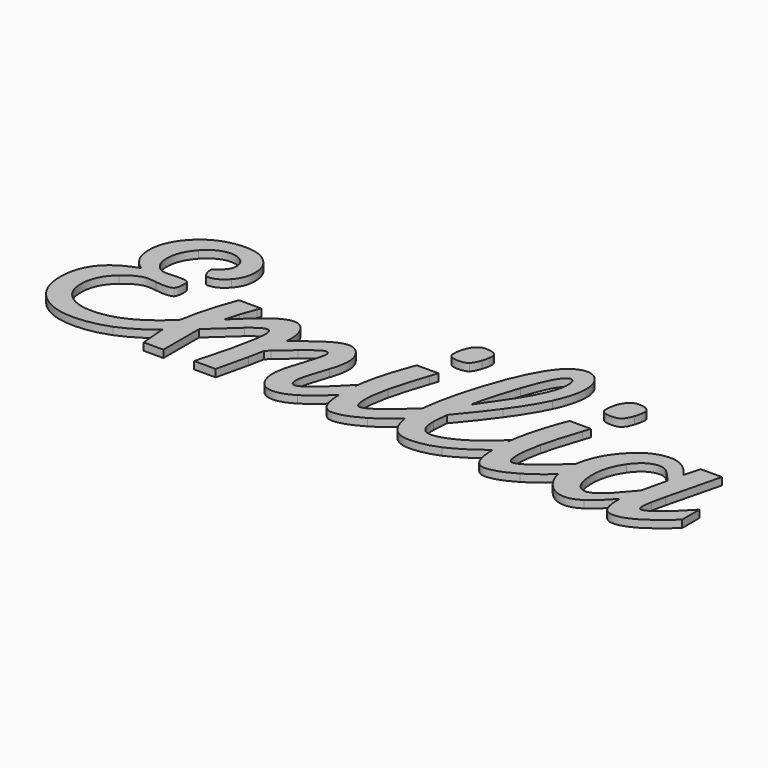
from build123d import *

# Parameters (mm, degrees)
F1_DEPTH = 1


with BuildPart() as f1:
    # F0 (on Top) → F1 (new body)
    with BuildSketch(Plane.XY):
        with BuildLine():
            Line((-26.762549, -5.396316), (-26.762549, -8.324648))
            add(Edge.make_bspline(
                [(-26.762549, -8.324648), (-26.795407437, -8.3515321107), (-26.8282712696, -8.3782705321), (-26.8611404979, -8.4048632642)],
                knots=[0, 0, 0, 0, 0.0216766613, 0.0216766613, 0.0216766613, 0.0216766613], degree=3))
            add(Edge.make_bspline(
                [(-26.836192, -9.048116), (-26.8454389032, -8.8169456343), (-26.8537550664, -8.6025280612), (-26.8611404979, -8.4048632642)],
                knots=[0, 0, 0, 0, 0.2013040862, 0.2013040862, 0.2013040862, 0.2013040862], degree=3))
            add(Edge.make_bspline(
                [(-26.595033, -11.873096), (-26.686904, -11.115175), (-26.76729, -10.173515), (-26.836192, -9.048116)],
                knots=[0, 0, 0, 0, 1, 1, 1, 1], degree=3))
            Line((-26.595033, -11.873096), (-23.942308, -11.873096))
            Line((-23.942308, -11.873096), (-24.01121, -8.186842))
            Line((-24.01121, -8.186842), (-23.942308, -5.878628))
            add(Edge.make_bspline(
                [(-20.39386, -2.640238), (-21.128814, -3.260356), (-22.31163, -4.339819), (-23.942308, -5.878628)],
                knots=[0, 0, 0, 0, 1, 1, 1, 1], degree=3))
            add(Edge.make_bspline(
                [(-18.361254, -1.400004), (-18.728731, -1.400004), (-19.406267, -1.813416), (-20.39386, -2.640238)],
                knots=[0, 0, 0, 0, 1, 1, 1, 1], degree=3))
            add(Edge.make_bspline(
                [(-17.775589, -2.364631), (-17.775589, -1.721547), (-17.97081, -1.400004), (-18.361254, -1.400004)],
                knots=[0, 0, 0, 0, 1, 1, 1, 1], degree=3))
            add(Edge.make_bspline(
                [(-18.567959, -7.153313), (-18.039712, -4.948452), (-17.775589, -3.352225), (-17.775589, -2.364631)],
                knots=[0, 0, 0, 0, 1, 1, 1, 1], degree=3))
            add(Edge.make_bspline(
                [(-19.808193, -11.873096), (-19.165108, -9.461528), (-18.751697, -7.888267), (-18.567959, -7.153313)],
                knots=[0, 0, 0, 0, 1, 1, 1, 1], degree=3))
            Line((-19.808193, -11.873096), (-16.914314, -11.873096))
            add(Edge.make_bspline(
                [(-15.915236, -7.601177), (-16.098974, -8.496902), (-16.432, -9.920874), (-16.914314, -11.873096)],
                knots=[0, 0, 0, 0, 1, 1, 1, 1], degree=3))
            add(Edge.make_bspline(
                [(-15.501823, -5.499669), (-15.570727, -6.00495), (-15.708531, -6.705453), (-15.915236, -7.601177)],
                knots=[0, 0, 0, 0, 1, 1, 1, 1], degree=3))
            Line((-15.501823, -5.499669), (-14.98506, -4.982906))
            add(Edge.make_bspline(
                [(-12.81465, -3.122553), (-13.549604, -3.742671), (-14.273074, -4.362788), (-14.98506, -4.982906)],
                knots=[0, 0, 0, 0, 1, 1, 1, 1], degree=3))
            add(Edge.make_bspline(
                [(-10.368633, -1.468906), (-10.667207, -1.468906), (-11.482546, -2.020122), (-12.81465, -3.122553)],
                knots=[0, 0, 0, 0, 1, 1, 1, 1], degree=3))
            add(Edge.make_bspline(
                [(-9.886318, -2.089024), (-9.886318, -1.675612), (-10.047089, -1.468906), (-10.368633, -1.468906)],
                knots=[0, 0, 0, 0, 1, 1, 1, 1], degree=3))
            add(Edge.make_bspline(
                [(-11.05765, -6.292041), (-10.276762, -3.949377), (-9.886318, -2.548371), (-9.886318, -2.089024)],
                knots=[0, 0, 0, 0, 1, 1, 1, 1], degree=3))
            add(Edge.make_bspline(
                [(-11.574416, -9.013665), (-11.574416, -8.232777), (-11.402161, -7.325569), (-11.05765, -6.292041)],
                knots=[0, 0, 0, 0, 1, 1, 1, 1], degree=3))
            add(Edge.make_bspline(
                [(-11.161005, -10.770665), (-11.436612, -10.21945), (-11.574416, -9.633783), (-11.574416, -9.013665)],
                knots=[0, 0, 0, 0, 1, 1, 1, 1], degree=3))
            add(Edge.make_bspline(
                [(-9.16285, -12.04535), (-10.058574, -12.04535), (-10.724626, -11.620455), (-11.161005, -10.770665)],
                knots=[0, 0, 0, 0, 1, 1, 1, 1], degree=3))
            add(Edge.make_bspline(
                [(-6.475673, -11.149625), (-7.440302, -11.746775), (-8.336027, -12.04535), (-9.16285, -12.04535)],
                knots=[0, 0, 0, 0, 1, 1, 1, 1], degree=3))
            add(Edge.make_bspline(
                [(-3.0995742317, -8.3922602015), (-4.38010124, -9.6438667833), (-5.5054674961, -10.5629883829), (-6.475673, -11.149625)],
                knots=[0.0176059329, 0.0176059329, 0.0176059329, 0.0176059329, 1, 1, 1, 1], degree=3))
            add(Edge.make_bspline(
                [(-3.0995742079, -8.3922602086), (-3.1121534026, -8.0665644592), (-3.118443, -7.709420723), (-3.118443, -7.320829)],
                knots=[0.6978688469, 0.6978688469, 0.6978688469, 0.6978688469, 1, 1, 1, 1], degree=3))
            add(Edge.make_bspline(
                [(-3.118443, -7.320829), (-3.118443, -6.8404478417), (-3.0891546473, -6.3325013692), (-3.030578, -5.7969895824)],
                knots=[0, 0, 0, 0, 0.3873307545, 0.3873307545, 0.3873307545, 0.3873307545], degree=3))
            Line((-3.030578, -5.7969895824), (-3.030578, -5.396316))
            add(Edge.make_bspline(
                [(-6.234517, -8.496902), (-5.338793, -7.738982), (-4.270813, -6.705453), (-3.030578, -5.396316)],
                knots=[0, 0, 0, 0, 1, 1, 1, 1], degree=3))
            add(Edge.make_bspline(
                [(-8.198222, -9.599333), (-7.78481, -9.599333), (-7.130242, -9.231856), (-6.234517, -8.496902)],
                knots=[0, 0, 0, 0, 1, 1, 1, 1], degree=3))
            add(Edge.make_bspline(
                [(-8.577182, -9.323723), (-8.462346, -9.507463), (-8.336026, -9.599333), (-8.198222, -9.599333)],
                knots=[0, 0, 0, 0, 1, 1, 1, 1], degree=3))
            add(Edge.make_bspline(
                [(-8.714985, -8.600255), (-8.714985, -8.875862), (-8.669051, -9.117018), (-8.577182, -9.323723)],
                knots=[0, 0, 0, 0, 1, 1, 1, 1], degree=3))
            add(Edge.make_bspline(
                [(-7.578104, -4.397238), (-8.336025, -6.602099), (-8.714985, -8.003105), (-8.714985, -8.600255)],
                knots=[0, 0, 0, 0, 1, 1, 1, 1], degree=3))
            add(Edge.make_bspline(
                [(-7.061341, -1.847868), (-7.061341, -2.559855), (-7.233595, -3.409645), (-7.578104, -4.397238)],
                knots=[0, 0, 0, 0, 1, 1, 1, 1], degree=3))
            add(Edge.make_bspline(
                [(-7.750358, 0.25364), (-7.291013, -0.320543), (-7.061341, -1.021046), (-7.061341, -1.847868)],
                knots=[0, 0, 0, 0, 1, 1, 1, 1], degree=3))
            add(Edge.make_bspline(
                [(-9.369555, 1.114915), (-8.749437, 1.114915), (-8.209705, 0.827823), (-7.750358, 0.25364)],
                knots=[0, 0, 0, 0, 1, 1, 1, 1], degree=3))
            add(Edge.make_bspline(
                [(-12.332338, -0.15977), (-11.069136, 0.69002), (-10.081541, 1.114915), (-9.369555, 1.114915)],
                knots=[0, 0, 0, 0, 1, 1, 1, 1], degree=3))
            add(Edge.make_bspline(
                [(-15.053962, -2.261279), (-13.698891, -1.181816), (-12.791683, -0.481313), (-12.332338, -0.15977)],
                knots=[0, 0, 0, 0, 1, 1, 1, 1], degree=3))
            Line((-15.053962, -2.261279), (-15.019511, -1.675614))
            add(Edge.make_bspline(
                [(-15.777433, 0.977111), (-15.272152, 0.334027), (-15.019511, -0.550215), (-15.019511, -1.675614)],
                knots=[0, 0, 0, 0, 1, 1, 1, 1], degree=3))
            add(Edge.make_bspline(
                [(-17.15547, 1.735033), (-16.650189, 1.735033), (-16.190843, 1.482393), (-15.777433, 0.977111)],
                knots=[0, 0, 0, 0, 1, 1, 1, 1], degree=3))
            add(Edge.make_bspline(
                [(-19.532586, 0.770406), (-18.613894, 1.413491), (-17.821522, 1.735033), (-17.15547, 1.735033)],
                knots=[0, 0, 0, 0, 1, 1, 1, 1], degree=3))
            add(Edge.make_bspline(
                [(-23.218837, -2.502435), (-21.657061, -0.940658), (-20.42831, 0.150289), (-19.532586, 0.770406)],
                knots=[0, 0, 0, 0, 1, 1, 1, 1], degree=3))
            add(Edge.make_bspline(
                [(-22.702074, -0.607634), (-22.862845, -1.135881), (-23.035099, -1.767481), (-23.218837, -2.502435)],
                knots=[0, 0, 0, 0, 1, 1, 1, 1], degree=3))
            add(Edge.make_bspline(
                [(-21.978603, 1.390522), (-22.277179, 0.586666), (-22.518336, -0.079386), (-22.702074, -0.607634)],
                knots=[0, 0, 0, 0, 1, 1, 1, 1], degree=3))
            Line((-21.978603, 1.390522), (-24.769132, 1.872837))
            add(Edge.make_bspline(
                [(-26.353877, -3.157004), (-25.986399, -1.641162), (-25.458151, 0.035451), (-24.769132, 1.872837)],
                knots=[0, 0, 0, 0, 1, 1, 1, 1], degree=3))
            add(Edge.make_bspline(
                [(-26.8008844315, -5.4351873882), (-26.7105769531, -4.7601669257), (-26.5615744759, -4.0007725231), (-26.353877, -3.157004)],
                knots=[0.4348029653, 0.4348029653, 0.4348029653, 0.4348029653, 1, 1, 1, 1], degree=3))
            add(Edge.make_bspline(
                [(-26.8008844315, -5.4351873882), (-26.7881047604, -5.4222598688), (-26.7753262832, -5.4093027394), (-26.762549, -5.396316)],
                knots=[0.9954399629, 0.9954399629, 0.9954399629, 0.9954399629, 1, 1, 1, 1], degree=3))
        make_face()
        with BuildLine():
            add(Edge.make_bspline(
                [(-26.762549, -8.324648), (-26.795407437, -8.3515321107), (-26.8282712696, -8.3782705321), (-26.8611404979, -8.4048632642)],
                knots=[0, 0, 0, 0, 0.0216766613, 0.0216766613, 0.0216766613, 0.0216766613], degree=3))
            Line((-26.762549, -8.324648), (-26.762549, -5.396316))
            add(Edge.make_bspline(
                [(-26.8008844315, -5.4351873882), (-26.7881047604, -5.4222598688), (-26.7753262832, -5.4093027394), (-26.762549, -5.396316)],
                knots=[0.9954399629, 0.9954399629, 0.9954399629, 0.9954399629, 1, 1, 1, 1], degree=3))
            add(Edge.make_bspline(
                [(-26.905094, -6.843255), (-26.905094, -6.4238327548), (-26.8703574772, -5.9544769116), (-26.8008844315, -5.4351873882)],
                knots=[0, 0, 0, 0, 0.4348029653, 0.4348029653, 0.4348029653, 0.4348029653], degree=3))
            add(Edge.make_bspline(
                [(-26.8611404979, -8.4048632642), (-26.8904430025, -7.6206066273), (-26.905094, -7.1000708789), (-26.905094, -6.843255)],
                knots=[0.2013040862, 0.2013040862, 0.2013040862, 0.2013040862, 1, 1, 1, 1], degree=3))
        make_face()
        with BuildLine():
            add(Edge.make_bspline(
                [(-26.8611404979, -8.4048632642), (-28.3446130958, -9.6050614881), (-29.8390762632, -10.5084980879), (-31.34453, -11.115174)],
                knots=[0.0216766613, 0.0216766613, 0.0216766613, 0.0216766613, 1, 1, 1, 1], degree=3))
            add(Edge.make_bspline(
                [(-26.8611404979, -8.4048632642), (-26.8904430025, -7.6206066273), (-26.905094, -7.1000708789), (-26.905094, -6.843255)],
                knots=[0.2013040862, 0.2013040862, 0.2013040862, 0.2013040862, 1, 1, 1, 1], degree=3))
            add(Edge.make_bspline(
                [(-26.905094, -6.843255), (-26.905094, -6.4238327548), (-26.8703574772, -5.9544769116), (-26.8008844315, -5.4351873882)],
                knots=[0, 0, 0, 0, 0.4348029653, 0.4348029653, 0.4348029653, 0.4348029653], degree=3))
            add(Edge.make_bspline(
                [(-35.34084, -9.668235), (-32.4372939305, -9.668235), (-29.5906414168, -8.2572191294), (-26.8008844315, -5.4351873882)],
                knots=[0, 0, 0, 0, 0.9954399629, 0.9954399629, 0.9954399629, 0.9954399629], degree=3))
            add(Edge.make_bspline(
                [(-38.785936, -8.565804), (-37.936146, -9.300758), (-36.78778, -9.668235), (-35.34084, -9.668235)],
                knots=[0, 0, 0, 0, 1, 1, 1, 1], degree=3))
            add(Edge.make_bspline(
                [(-40.060621, -5.637472), (-40.060621, -6.85474), (-39.635726, -7.83085), (-38.785936, -8.565804)],
                knots=[0, 0, 0, 0, 1, 1, 1, 1], degree=3))
            add(Edge.make_bspline(
                [(-38.131368, -1.572259), (-39.417537, -2.67469), (-40.060621, -4.029761), (-40.060621, -5.637472)],
                knots=[0, 0, 0, 0, 1, 1, 1, 1], degree=3))
            add(Edge.make_bspline(
                [(-35.271938, -0.228672), (-36.144696, -0.228672), (-37.097839, -0.676534), (-38.131368, -1.572259)],
                knots=[0, 0, 0, 0, 1, 1, 1, 1], degree=3))
            add(Edge.make_bspline(
                [(-34.169508, -0.332024), (-34.651821, -0.263123), (-35.019298, -0.228672), (-35.271938, -0.228672)],
                knots=[0, 0, 0, 0, 1, 1, 1, 1], degree=3))
            add(Edge.make_bspline(
                [(-33.101528, -0.435377), (-33.331201, -0.435377), (-33.687194, -0.400926), (-34.169508, -0.332024)],
                knots=[0, 0, 0, 0, 1, 1, 1, 1], degree=3))
            add(Edge.make_bspline(
                [(-31.861294, -0.194221), (-32.067999, -0.354992), (-32.481411, -0.435377), (-33.101528, -0.435377)],
                knots=[0, 0, 0, 0, 1, 1, 1, 1], degree=3))
            add(Edge.make_bspline(
                [(-31.551235, 1.183816), (-31.551235, 0.425896), (-31.654588, -0.03345), (-31.861294, -0.194221)],
                knots=[0, 0, 0, 0, 1, 1, 1, 1], degree=3))
            add(Edge.make_bspline(
                [(-31.792392, 1.838386), (-31.631621, 1.746517), (-31.551235, 1.528327), (-31.551235, 1.183816)],
                knots=[0, 0, 0, 0, 1, 1, 1, 1], degree=3))
            add(Edge.make_bspline(
                [(-32.929273, 1.976189), (-32.332124, 1.976189), (-31.953163, 1.930255), (-31.792392, 1.838386)],
                knots=[0, 0, 0, 0, 1, 1, 1, 1], degree=3))
            Line((-32.929273, 1.976189), (-34.514017, 1.907287))
            add(Edge.make_bspline(
                [(-36.06431, 2.665207), (-35.650899, 2.159927), (-35.134134, 1.907287), (-34.514017, 1.907287)],
                knots=[0, 0, 0, 0, 1, 1, 1, 1], degree=3))
            add(Edge.make_bspline(
                [(-36.649977, 4.56001), (-36.649977, 3.825056), (-36.454755, 3.193455), (-36.06431, 2.665207)],
                knots=[0, 0, 0, 0, 1, 1, 1, 1], degree=3))
            add(Edge.make_bspline(
                [(-35.203037, 8.074007), (-36.167663, 7.017512), (-36.649977, 5.846179), (-36.649977, 4.56001)],
                knots=[0, 0, 0, 0, 1, 1, 1, 1], degree=3))
            add(Edge.make_bspline(
                [(-31.999098, 9.658752), (-33.17043, 9.658752), (-34.23841, 9.130504), (-35.203037, 8.074007)],
                knots=[0, 0, 0, 0, 1, 1, 1, 1], degree=3))
            add(Edge.make_bspline(
                [(-30.414354, 9.107536), (-30.827765, 9.475013), (-31.356013, 9.658752), (-31.999098, 9.658752)],
                knots=[0, 0, 0, 0, 1, 1, 1, 1], degree=3))
            add(Edge.make_bspline(
                [(-29.794237, 7.695047), (-29.794237, 8.26923), (-30.000942, 8.74006), (-30.414354, 9.107536)],
                knots=[0, 0, 0, 0, 1, 1, 1, 1], degree=3))
            add(Edge.make_bspline(
                [(-30.621059, 6.179206), (-30.069844, 6.615584), (-29.794237, 7.120864), (-29.794237, 7.695047)],
                knots=[0, 0, 0, 0, 1, 1, 1, 1], degree=3))
            add(Edge.make_bspline(
                [(-31.413431, 5.421284), (-31.413431, 5.513153), (-31.149307, 5.765794), (-30.621059, 6.179206)],
                knots=[0, 0, 0, 0, 1, 1, 1, 1], degree=3))
            add(Edge.make_bspline(
                [(-31.172275, 4.387756), (-31.333046, 4.709297), (-31.413431, 5.053807), (-31.413431, 5.421284)],
                knots=[0, 0, 0, 0, 1, 1, 1, 1], degree=3))
            add(Edge.make_bspline(
                [(-30.724412, 3.939894), (-30.862216, 3.939894), (-31.011504, 4.089181), (-31.172275, 4.387756)],
                knots=[0, 0, 0, 0, 1, 1, 1, 1], degree=3))
            add(Edge.make_bspline(
                [(-28.381748, 5.111227), (-29.070767, 4.330338), (-29.851655, 3.939894), (-30.724412, 3.939894)],
                knots=[0, 0, 0, 0, 1, 1, 1, 1], degree=3))
            add(Edge.make_bspline(
                [(-27.348217, 7.7984), (-27.348217, 6.787839), (-27.692727, 5.892115), (-28.381748, 5.111227)],
                knots=[0, 0, 0, 0, 1, 1, 1, 1], degree=3))
            add(Edge.make_bspline(
                [(-28.554002, 10.623379), (-27.750145, 9.911393), (-27.348217, 8.969733), (-27.348217, 7.7984)],
                knots=[0, 0, 0, 0, 1, 1, 1, 1], degree=3))
            add(Edge.make_bspline(
                [(-31.689039, 11.72581), (-30.379903, 11.72581), (-29.33489, 11.358333), (-28.554002, 10.623379)],
                knots=[0, 0, 0, 0, 1, 1, 1, 1], degree=3))
            add(Edge.make_bspline(
                [(-37.304545, 9.452047), (-35.81167, 10.967889), (-33.939835, 11.72581), (-31.689039, 11.72581)],
                knots=[0, 0, 0, 0, 1, 1, 1, 1], degree=3))
            add(Edge.make_bspline(
                [(-39.3027, 4.904519), (-39.3027, 6.581133), (-38.636648, 8.096976), (-37.304545, 9.452047)],
                knots=[0, 0, 0, 0, 1, 1, 1, 1], degree=3))
            add(Edge.make_bspline(
                [(-37.373446, 1.149366), (-38.659616, 2.022123), (-39.3027, 3.27384), (-39.3027, 4.904519)],
                knots=[0, 0, 0, 0, 1, 1, 1, 1], degree=3))
            add(Edge.make_bspline(
                [(-41.300855, -1.296652), (-40.405131, -0.240156), (-39.095994, 0.575183), (-37.373446, 1.149366)],
                knots=[0, 0, 0, 0, 1, 1, 1, 1], degree=3))
            add(Edge.make_bspline(
                [(-42.782246, -5.706374), (-42.782246, -3.937892), (-42.288449, -2.467985), (-41.300855, -1.296652)],
                knots=[0, 0, 0, 0, 1, 1, 1, 1], degree=3))
            add(Edge.make_bspline(
                [(-40.921895, -10.28835), (-42.162129, -9.139986), (-42.782246, -7.612661), (-42.782246, -5.706374)],
                knots=[0, 0, 0, 0, 1, 1, 1, 1], degree=3))
            add(Edge.make_bspline(
                [(-35.960958, -12.010899), (-38.028015, -12.010899), (-39.681661, -11.436716), (-40.921895, -10.28835)],
                knots=[0, 0, 0, 0, 1, 1, 1, 1], degree=3))
            add(Edge.make_bspline(
                [(-31.34453, -11.115174), (-32.883339, -11.712324), (-34.422148, -12.010899), (-35.960958, -12.010899)],
                knots=[0, 0, 0, 0, 1, 1, 1, 1], degree=3))
        make_face()
        Polygon((-24.01121, -8.186842), (-23.942308, -11.873096), (-23.942308, -5.878628), align=None)
        Polygon((-21.771898, 1.872837), (-24.769132, 1.872837), (-21.978603, 1.390522), align=None)
        with BuildLine():
            add(Edge.make_bspline(
                [(-3.0995742079, -8.3922602086), (-3.1121534026, -8.0665644592), (-3.118443, -7.709420723), (-3.118443, -7.320829)],
                knots=[0.6978688469, 0.6978688469, 0.6978688469, 0.6978688469, 1, 1, 1, 1], degree=3))
            add(Edge.make_bspline(
                [(-3.030578, -8.324648), (-3.0536265782, -8.3472921876), (-3.0766253221, -8.369829588), (-3.0995742317, -8.3922602015)],
                knots=[0, 0, 0, 0, 0.0176059329, 0.0176059329, 0.0176059329, 0.0176059329], degree=3))
            Line((-3.030578, -8.324648), (-3.030578, -5.7969895824))
            add(Edge.make_bspline(
                [(-3.118443, -7.320829), (-3.118443, -6.8404478417), (-3.0891546473, -6.3325013692), (-3.030578, -5.7969895824)],
                knots=[0, 0, 0, 0, 0.3873307545, 0.3873307545, 0.3873307545, 0.3873307545], degree=3))
        make_face()
        with BuildLine():
            add(Edge.make_bspline(
                [(-3.030578, -8.324648), (-3.0536265782, -8.3472921876), (-3.0766253221, -8.369829588), (-3.0995742317, -8.3922602015)],
                knots=[0, 0, 0, 0, 0.0176059329, 0.0176059329, 0.0176059329, 0.0176059329], degree=3))
            add(Edge.make_bspline(
                [(-2.911737, -10.145806), (-3.0079061186, -9.7290743159), (-3.0705185212, -9.1445590521), (-3.0995742079, -8.3922602086)],
                knots=[0, 0, 0, 0, 0.6978688469, 0.6978688469, 0.6978688469, 0.6978688469], degree=3))
            add(Edge.make_bspline(
                [(-1.223639, -11.937256), (-2.073429, -11.937256), (-2.636129, -11.340106), (-2.911737, -10.145806)],
                knots=[0, 0, 0, 0, 1, 1, 1, 1], degree=3))
            add(Edge.make_bspline(
                [(2.497063, -10.628121), (1.027155, -11.500878), (-0.213079, -11.937256), (-1.223639, -11.937256)],
                knots=[0, 0, 0, 0, 1, 1, 1, 1], degree=3))
            add(Edge.make_bspline(
                [(5.6591407018, -8.2237814602), (4.7720601956, -9.1031359556), (3.7180349311, -9.9045821508), (2.497063, -10.628121)],
                knots=[0.0155317894, 0.0155317894, 0.0155317894, 0.0155317894, 1, 1, 1, 1], degree=3))
            add(Edge.make_bspline(
                [(5.6591406886, -8.2237814574), (5.6055068962, -7.8255448194), (5.57869, -7.3966603583), (5.57869, -6.937128)],
                knots=[0.6665311901, 0.6665311901, 0.6665311901, 0.6665311901, 1, 1, 1, 1], degree=3))
            add(Edge.make_bspline(
                [(5.57869, -6.937128), (5.57869, -6.4207445831), (5.6065987293, -5.8716220663), (5.662416188, -5.2897604498)],
                knots=[0, 0, 0, 0, 0.2161865531, 0.2161865531, 0.2161865531, 0.2161865531], degree=3))
            add(Edge.make_bspline(
                [(3.633944, -7.114124), (4.3101010623, -6.528120035), (4.9862590877, -5.9199994814), (5.662416186, -5.2897604489)],
                knots=[0, 0, 0, 0, 0.981332971, 0.981332971, 0.981332971, 0.981332971], degree=3))
            add(Edge.make_bspline(
                [(0.326653, -9.181178), (0.900836, -9.181178), (2.003266, -8.49216), (3.633944, -7.114124)],
                knots=[0, 0, 0, 0, 1, 1, 1, 1], degree=3))
            add(Edge.make_bspline(
                [(-0.327914, -7.527534), (-0.327914, -8.629964), (-0.109725, -9.181178), (0.326653, -9.181178)],
                knots=[0, 0, 0, 0, 1, 1, 1, 1], degree=3))
            add(Edge.make_bspline(
                [(0.119947, -4.185792), (-0.178627, -5.471961), (-0.327914, -6.585875), (-0.327914, -7.527534)],
                knots=[0, 0, 0, 0, 1, 1, 1, 1], degree=3))
            add(Edge.make_bspline(
                [(1.635791, 0.947402), (0.923805, -1.188558), (0.418523, -2.899622), (0.119947, -4.185792)],
                knots=[0, 0, 0, 0, 1, 1, 1, 1], degree=3))
            Line((1.635791, 0.947402), (-0.913581, 1.980931))
            add(Edge.make_bspline(
                [(-2.532775, -3.04891), (-2.142332, -1.441199), (-1.602601, 0.235414), (-0.913581, 1.980931)],
                knots=[0, 0, 0, 0, 1, 1, 1, 1], degree=3))
            add(Edge.make_bspline(
                [(-3.030578, -5.7969895824), (-2.9379230536, -4.9499316129), (-2.7719886436, -4.0339050854), (-2.532775, -3.04891)],
                knots=[0.3873307545, 0.3873307545, 0.3873307545, 0.3873307545, 1, 1, 1, 1], degree=3))
            Line((-3.030578, -5.7969895824), (-3.030578, -8.324648))
        make_face()
        Polygon((1.9803, 1.980931), (-0.913581, 1.980931), (1.635791, 0.947402), align=None)
        with BuildLine():
            add(Edge.make_bspline(
                [(5.6591406886, -8.2237814574), (5.6055068962, -7.8255448194), (5.57869, -7.3966603583), (5.57869, -6.937128)],
                knots=[0.6665311901, 0.6665311901, 0.6665311901, 0.6665311901, 1, 1, 1, 1], degree=3))
            add(Edge.make_bspline(
                [(5.701002, -8.182103), (5.6870897879, -8.1960152121), (5.6731360218, -8.2099080322), (5.6591407018, -8.2237814602)],
                knots=[0, 0, 0, 0, 0.0155317894, 0.0155317894, 0.0155317894, 0.0155317894], degree=3))
            Line((5.701002, -8.182103), (5.701002, -5.253771))
            add(Edge.make_bspline(
                [(5.662416186, -5.2897604489), (5.6752781243, -5.2777719693), (5.6881400623, -5.2657754864), (5.701002, -5.253771)],
                knots=[0.981332971, 0.981332971, 0.981332971, 0.981332971, 1, 1, 1, 1], degree=3))
            add(Edge.make_bspline(
                [(5.57869, -6.937128), (5.57869, -6.4207445831), (5.6065987293, -5.8716220663), (5.662416188, -5.2897604498)],
                knots=[0, 0, 0, 0, 0.2161865531, 0.2161865531, 0.2161865531, 0.2161865531], degree=3))
        make_face()
        with BuildLine():
            add(Edge.make_bspline(
                [(5.701002, -8.182103), (5.6870897879, -8.1960152121), (5.6731360218, -8.2099080322), (5.6591407018, -8.2237814602)],
                knots=[0, 0, 0, 0, 0.0155317894, 0.0155317894, 0.0155317894, 0.0155317894], degree=3))
            add(Edge.make_bspline(
                [(6.302158, -10.24442), (5.9806820086, -9.6933153487), (5.7663429048, -9.0197693653), (5.6591406886, -8.2237814574)],
                knots=[0, 0, 0, 0, 0.6665311901, 0.6665311901, 0.6665311901, 0.6665311901], degree=3))
            add(Edge.make_bspline(
                [(9.023785, -11.760261), (7.78355, -11.760261), (6.876341, -11.25498), (6.302158, -10.24442)],
                knots=[0, 0, 0, 0, 1, 1, 1, 1], degree=3))
            add(Edge.make_bspline(
                [(12.813388, -10.933437), (11.527219, -11.484653), (10.264018, -11.760261), (9.023785, -11.760261)],
                knots=[0, 0, 0, 0, 1, 1, 1, 1], degree=3))
            add(Edge.make_bspline(
                [(17.3209901198, -8.0964257607), (15.5840265095, -9.4216482701), (14.0814931085, -10.3673186832), (12.813388, -10.933437)],
                knots=[0.0140454928, 0.0140454928, 0.0140454928, 0.0140454928, 1, 1, 1, 1], degree=3))
            add(Edge.make_bspline(
                [(17.3209901198, -8.0964257607), (17.3119993622, -7.8128556442), (17.307504, -7.5068083906), (17.307504, -7.178284)],
                knots=[0.7445713661, 0.7445713661, 0.7445713661, 0.7445713661, 1, 1, 1, 1], degree=3))
            add(Edge.make_bspline(
                [(17.307504, -7.178284), (17.307504, -6.6979116334), (17.3367909806, -6.1899749616), (17.395365, -5.6544739844)],
                knots=[0, 0, 0, 0, 0.3873236657, 0.3873236657, 0.3873236657, 0.3873236657], degree=3))
            Line((17.395365, -5.6544739844), (17.395365, -5.111226))
            add(Edge.make_bspline(
                [(13.53686, -8.211813), (14.937865, -7.407957), (16.224034, -6.374429), (17.395365, -5.111226)],
                knots=[0, 0, 0, 0, 1, 1, 1, 1], degree=3))
            add(Edge.make_bspline(
                [(10.057314, -9.417596), (10.976005, -9.417596), (12.135854, -9.015668), (13.53686, -8.211813)],
                knots=[0, 0, 0, 0, 1, 1, 1, 1], degree=3))
            add(Edge.make_bspline(
                [(8.438117, -6.937128), (8.438117, -8.590773), (8.977849, -9.417596), (10.057314, -9.417596)],
                knots=[0, 0, 0, 0, 1, 1, 1, 1], degree=3))
            Line((8.438117, -6.937128), (8.610371, -4.835619))
            add(Edge.make_bspline(
                [(12.331076, -0.115837), (11.412385, -1.402006), (10.17215, -2.975267), (8.610371, -4.835619)],
                knots=[0, 0, 0, 0, 1, 1, 1, 1], degree=3))
            add(Edge.make_bspline(
                [(15.224955, 4.603943), (14.581872, 3.225905), (13.617246, 1.652645), (12.331076, -0.115837)],
                knots=[0, 0, 0, 0, 1, 1, 1, 1], degree=3))
            add(Edge.make_bspline(
                [(16.361836, 8.979215), (16.361836, 7.670078), (15.982876, 6.211654), (15.224955, 4.603943)],
                knots=[0, 0, 0, 0, 1, 1, 1, 1], degree=3))
            add(Edge.make_bspline(
                [(15.672819, 11.149625), (16.132164, 10.575442), (16.361836, 9.851972), (16.361836, 8.979215)],
                knots=[0, 0, 0, 0, 1, 1, 1, 1], degree=3))
            add(Edge.make_bspline(
                [(13.984721, 12.04535), (14.650773, 12.04535), (15.213472, 11.746775), (15.672819, 11.149625)],
                knots=[0, 0, 0, 0, 1, 1, 1, 1], degree=3))
            add(Edge.make_bspline(
                [(11.504253, 10.839567), (12.331075, 11.643423), (13.157898, 12.04535), (13.984721, 12.04535)],
                knots=[0, 0, 0, 0, 1, 1, 1, 1], degree=3))
            add(Edge.make_bspline(
                [(7.370137, 2.330181), (8.656307, 6.395392), (10.034345, 9.231854), (11.504253, 10.839567)],
                knots=[0, 0, 0, 0, 1, 1, 1, 1], degree=3))
            add(Edge.make_bspline(
                [(5.662416188, -5.2897604498), (5.8647898973, -3.1801428407), (6.434030168, -0.6401623574), (7.370137, 2.330181)],
                knots=[0.2161865531, 0.2161865531, 0.2161865531, 0.2161865531, 1, 1, 1, 1], degree=3))
            add(Edge.make_bspline(
                [(5.662416186, -5.2897604489), (5.6752781243, -5.2777719693), (5.6881400623, -5.2657754864), (5.701002, -5.253771)],
                knots=[0.981332971, 0.981332971, 0.981332971, 0.981332971, 1, 1, 1, 1], degree=3))
            Line((5.701002, -5.253771), (5.701002, -8.182103))
        make_face()
        with BuildLine():
            add(Edge.make_bspline(
                [(9.092686, -1.459426), (10.378856, 0.354992), (11.263097, 1.641161), (11.745409, 2.399082)],
                knots=[0, 0, 0, 0, 1, 1, 1, 1], degree=3))
            add(Edge.make_bspline(
                [(10.815233, 4.707296), (10.011377, 2.318697), (9.437195, 0.263123), (9.092686, -1.459426)],
                knots=[0, 0, 0, 0, 1, 1, 1, 1], degree=3))
            add(Edge.make_bspline(
                [(13.640212, 9.668235), (12.882291, 9.668235), (11.940631, 8.014589), (10.815233, 4.707296)],
                knots=[0, 0, 0, 0, 1, 1, 1, 1], degree=3))
            add(Edge.make_bspline(
                [(14.260331, 8.4969), (14.260331, 9.27779), (14.053624, 9.668235), (13.640212, 9.668235)],
                knots=[0, 0, 0, 0, 1, 1, 1, 1], degree=3))
            add(Edge.make_bspline(
                [(13.605761, 5.775276), (14.042141, 6.762869), (14.260331, 7.670077), (14.260331, 8.4969)],
                knots=[0, 0, 0, 0, 1, 1, 1, 1], degree=3))
            add(Edge.make_bspline(
                [(11.745409, 2.399082), (12.572231, 3.685252), (13.192349, 4.81065), (13.605761, 5.775276)],
                knots=[0, 0, 0, 0, 1, 1, 1, 1], degree=3))
        make_face(mode=Mode.SUBTRACT)
        with BuildLine():
            add(Edge.make_bspline(
                [(17.3209901198, -8.0964257607), (17.3119993622, -7.8128556442), (17.307504, -7.5068083906), (17.307504, -7.178284)],
                knots=[0.7445713661, 0.7445713661, 0.7445713661, 0.7445713661, 1, 1, 1, 1], degree=3))
            add(Edge.make_bspline(
                [(17.395365, -8.039559), (17.3705257988, -8.0585916119), (17.3457341721, -8.0775471988), (17.3209901198, -8.0964257607)],
                knots=[0, 0, 0, 0, 0.0140454928, 0.0140454928, 0.0140454928, 0.0140454928], degree=3))
            Line((17.395365, -8.039559), (17.395365, -5.6544739844))
            add(Edge.make_bspline(
                [(17.307504, -7.178284), (17.307504, -6.6979116334), (17.3367909806, -6.1899749616), (17.395365, -5.6544739844)],
                knots=[0, 0, 0, 0, 0.3873236657, 0.3873236657, 0.3873236657, 0.3873236657], degree=3))
        make_face()
        with BuildLine():
            add(Edge.make_bspline(
                [(17.395365, -8.039559), (17.3705257988, -8.0585916119), (17.3457341721, -8.0775471988), (17.3209901198, -8.0964257607)],
                knots=[0, 0, 0, 0, 0.0140454928, 0.0140454928, 0.0140454928, 0.0140454928], degree=3))
            add(Edge.make_bspline(
                [(17.514209, -10.003261), (17.4116040875, -9.5586409533), (17.3471980693, -8.9230292068), (17.3209901198, -8.0964257607)],
                knots=[0, 0, 0, 0, 0.7445713661, 0.7445713661, 0.7445713661, 0.7445713661], degree=3))
            add(Edge.make_bspline(
                [(19.202307, -11.794711), (18.352515, -11.794711), (17.789816, -11.197561), (17.514209, -10.003261)],
                knots=[0, 0, 0, 0, 1, 1, 1, 1], degree=3))
            add(Edge.make_bspline(
                [(22.923009, -10.485576), (21.453102, -11.358333), (20.212868, -11.794711), (19.202307, -11.794711)],
                knots=[0, 0, 0, 0, 1, 1, 1, 1], degree=3))
            add(Edge.make_bspline(
                [(26.126948, -8.039559), (25.231224, -8.935283), (24.163244, -9.750622), (22.923009, -10.485576)],
                knots=[0, 0, 0, 0, 1, 1, 1, 1], degree=3))
            Line((26.126948, -8.039559), (26.126948, -8.0200896269))
            add(Edge.make_bspline(
                [(26.126948, -8.0200896269), (26.0454046549, -7.6202159902), (26.004633, -7.2018098048), (26.004633, -6.764871)],
                knots=[0.6719934744, 0.6719934744, 0.6719934744, 0.6719934744, 1, 1, 1, 1], degree=3))
            add(Edge.make_bspline(
                [(26.004633, -6.764871), (26.004633, -6.1980858469), (26.0454046627, -5.648688621), (26.126948, -5.1166793223)],
                knots=[0, 0, 0, 0, 0.2284992804, 0.2284992804, 0.2284992804, 0.2284992804], degree=3))
            Line((26.126948, -5.1166793223), (26.126948, -5.111226))
            add(Edge.make_bspline(
                [(24.05989, -6.971579), (24.74891, -6.374429), (25.437929, -5.754311), (26.126948, -5.111226)],
                knots=[0, 0, 0, 0, 1, 1, 1, 1], degree=3))
            add(Edge.make_bspline(
                [(20.752599, -9.038634), (21.326782, -9.038634), (22.429212, -8.349615), (24.05989, -6.971579)],
                knots=[0, 0, 0, 0, 1, 1, 1, 1], degree=3))
            add(Edge.make_bspline(
                [(20.098029, -7.384989), (20.098029, -8.487419), (20.316219, -9.038634), (20.752599, -9.038634)],
                knots=[0, 0, 0, 0, 1, 1, 1, 1], degree=3))
            add(Edge.make_bspline(
                [(20.545894, -4.043247), (20.247318, -5.329416), (20.098029, -6.44333), (20.098029, -7.384989)],
                knots=[0, 0, 0, 0, 1, 1, 1, 1], degree=3))
            add(Edge.make_bspline(
                [(22.061735, 1.089947), (21.349748, -1.046013), (20.844468, -2.757077), (20.545894, -4.043247)],
                knots=[0, 0, 0, 0, 1, 1, 1, 1], degree=3))
            Line((22.061735, 1.089947), (19.512365, 2.123475))
            add(Edge.make_bspline(
                [(17.893168, -2.906365), (18.283613, -1.298654), (18.823346, 0.377959), (19.512365, 2.123475)],
                knots=[0, 0, 0, 0, 1, 1, 1, 1], degree=3))
            add(Edge.make_bspline(
                [(17.395365, -5.6544739844), (17.4880185573, -4.8074078102), (17.653952814, -3.8913714821), (17.893168, -2.906365)],
                knots=[0.3873236657, 0.3873236657, 0.3873236657, 0.3873236657, 1, 1, 1, 1], degree=3))
            Line((17.395365, -5.6544739844), (17.395365, -8.039559))
        make_face()
        Polygon((22.406243, 2.123475), (19.512365, 2.123475), (22.061735, 1.089947), align=None)
        with BuildLine():
            add(Edge.make_bspline(
                [(26.126948, -8.0200896269), (26.0454046549, -7.6202159902), (26.004633, -7.2018098048), (26.004633, -6.764871)],
                knots=[0.6719934744, 0.6719934744, 0.6719934744, 0.6719934744, 1, 1, 1, 1], degree=3))
            Line((26.126948, -8.0200896269), (26.126948, -5.1166793223))
            add(Edge.make_bspline(
                [(26.004633, -6.764871), (26.004633, -6.1980858469), (26.0454046627, -5.648688621), (26.126948, -5.1166793223)],
                knots=[0, 0, 0, 0, 0.2284992804, 0.2284992804, 0.2284992804, 0.2284992804], degree=3))
        make_face()
        with BuildLine():
            Line((26.126948, -5.1166793223), (26.126948, -8.0200896269))
            add(Edge.make_bspline(
                [(27.141514, -10.24442), (26.6321960339, -9.5807619326), (26.2940074684, -8.8393186773), (26.126948, -8.0200896269)],
                knots=[0, 0, 0, 0, 0.6719934744, 0.6719934744, 0.6719934744, 0.6719934744], degree=3))
            add(Edge.make_bspline(
                [(29.863141, -11.691359), (28.829612, -11.691359), (27.922403, -11.209046), (27.141514, -10.24442)],
                knots=[0, 0, 0, 0, 1, 1, 1, 1], degree=3))
            add(Edge.make_bspline(
                [(31.96465, -10.967888), (31.252663, -11.450202), (30.552161, -11.691359), (29.863141, -11.691359)],
                knots=[0, 0, 0, 0, 1, 1, 1, 1], degree=3))
            add(Edge.make_bspline(
                [(34.720725, -8.418518), (33.618295, -9.635786), (32.699604, -10.485576), (31.96465, -10.967888)],
                knots=[0, 0, 0, 0, 1, 1, 1, 1], degree=3))
            Line((34.720725, -8.418518), (34.720725, -9.004183))
            add(Edge.make_bspline(
                [(35.065233, -10.933437), (34.835561, -10.382221), (34.720725, -9.739137), (34.720725, -9.004183)],
                knots=[0, 0, 0, 0, 1, 1, 1, 1], degree=3))
            add(Edge.make_bspline(
                [(36.512176, -11.72581), (35.800189, -11.72581), (35.317875, -11.461685), (35.065233, -10.933437)],
                knots=[0, 0, 0, 0, 1, 1, 1, 1], degree=3))
            add(Edge.make_bspline(
                [(42.782247, -8.039559), (40.118041, -10.497059), (38.028017, -11.72581), (36.512176, -11.72581)],
                knots=[0, 0, 0, 0, 1, 1, 1, 1], degree=3))
            Line((42.782247, -8.039559), (42.782247, -5.111226))
            add(Edge.make_bspline(
                [(39.819467, -7.936203), (40.669257, -7.247186), (41.656851, -6.305527), (42.782247, -5.111226)],
                knots=[0, 0, 0, 0, 1, 1, 1, 1], degree=3))
            add(Edge.make_bspline(
                [(38.028016, -8.935281), (38.395494, -8.935281), (38.992645, -8.602255), (39.819467, -7.936203)],
                knots=[0, 0, 0, 0, 1, 1, 1, 1], degree=3))
            add(Edge.make_bspline(
                [(37.614606, -8.280715), (37.614606, -8.717092), (37.75241, -8.935281), (38.028016, -8.935281)],
                knots=[0, 0, 0, 0, 1, 1, 1, 1], degree=3))
            add(Edge.make_bspline(
                [(37.78686, -6.937128), (37.672024, -7.580211), (37.614606, -8.028073), (37.614606, -8.280715)],
                knots=[0, 0, 0, 0, 1, 1, 1, 1], degree=3))
            add(Edge.make_bspline(
                [(38.200271, -5.076776), (38.0395, -5.650959), (37.901697, -6.271076), (37.78686, -6.937128)],
                knots=[0, 0, 0, 0, 1, 1, 1, 1], degree=3))
            Line((38.200271, -5.076776), (36.546626, -0.012484))
            add(Edge.make_bspline(
                [(34.92743, 1.64116), (35.501613, 1.296652), (36.041345, 0.745437), (36.546626, -0.012484)],
                knots=[0, 0, 0, 0, 1, 1, 1, 1], degree=3))
            add(Edge.make_bspline(
                [(33.06708, 2.192377), (33.7561, 2.192377), (34.376216, 2.008638), (34.92743, 1.64116)],
                knots=[0, 0, 0, 0, 1, 1, 1, 1], degree=3))
            add(Edge.make_bspline(
                [(28.347298, -0.322545), (29.794238, 1.35407), (31.367499, 2.192377), (33.06708, 2.192377)],
                knots=[0, 0, 0, 0, 1, 1, 1, 1], degree=3))
            add(Edge.make_bspline(
                [(26.126948, -5.1166793223), (26.4022694071, -3.3204130237), (27.1423859207, -1.7223682496), (28.347298, -0.322545)],
                knots=[0.2284992804, 0.2284992804, 0.2284992804, 0.2284992804, 1, 1, 1, 1], degree=3))
        make_face()
        with BuildLine():
            add(Edge.make_bspline(
                [(36.064311, -2.079542), (35.283423, -1.16085), (34.766659, -0.598152), (34.51402, -0.391446)],
                knots=[0, 0, 0, 0, 1, 1, 1, 1], degree=3))
            Line((36.064311, -2.079542), (35.271941, -5.524637))
            add(Edge.make_bspline(
                [(33.273786, -7.832851), (33.939838, -7.07493), (34.60589, -6.305525), (35.271941, -5.524637)],
                knots=[0, 0, 0, 0, 1, 1, 1, 1], degree=3))
            add(Edge.make_bspline(
                [(30.793318, -9.348694), (31.482337, -9.348694), (32.309159, -8.843413), (33.273786, -7.832851)],
                knots=[0, 0, 0, 0, 1, 1, 1, 1], degree=3))
            add(Edge.make_bspline(
                [(29.51863, -8.452969), (29.840173, -9.050119), (30.265069, -9.348694), (30.793318, -9.348694)],
                knots=[0, 0, 0, 0, 1, 1, 1, 1], degree=3))
            add(Edge.make_bspline(
                [(29.036318, -6.041403), (29.036318, -7.028996), (29.197088, -7.832851), (29.51863, -8.452969)],
                knots=[0, 0, 0, 0, 1, 1, 1, 1], degree=3))
            add(Edge.make_bspline(
                [(30.345453, -1.838386), (29.472696, -3.078621), (29.036318, -4.479626), (29.036318, -6.041403)],
                knots=[0, 0, 0, 0, 1, 1, 1, 1], degree=3))
            add(Edge.make_bspline(
                [(33.342687, 0.056418), (32.240256, 0.056418), (31.241178, -0.575183), (30.345453, -1.838386)],
                knots=[0, 0, 0, 0, 1, 1, 1, 1], degree=3))
            add(Edge.make_bspline(
                [(34.51402, -0.391446), (34.146542, -0.09287), (33.756098, 0.056418), (33.342687, 0.056418)],
                knots=[0, 0, 0, 0, 1, 1, 1, 1], degree=3))
        make_face(mode=Mode.SUBTRACT)
        Polygon((37.132291, 2.157926), (36.546626, -0.012484), (38.200271, -5.076776), (39.991722, 2.157926), align=None)
    extrude(amount=F1_DEPTH)


with BuildPart() as f1b:
    # F0 (on Top) → F1, piece 2 (new body)
    with BuildSketch(Plane.XY):
        with BuildLine():
            add(Edge.make_bspline(
                [(2.324808, 9.456786), (3.450207, 9.456786), (4.012907, 9.135244), (4.012907, 8.492161)],
                knots=[0, 0, 0, 0, 1, 1, 1, 1], degree=3))
            add(Edge.make_bspline(
                [(0.946771, 8.526612), (1.314247, 9.146728), (1.773593, 9.456786), (2.324808, 9.456786)],
                knots=[0, 0, 0, 0, 1, 1, 1, 1], degree=3))
            add(Edge.make_bspline(
                [(0.430005, 6.390653), (0.430005, 7.194508), (0.60226, 7.906495), (0.946771, 8.526612)],
                knots=[0, 0, 0, 0, 1, 1, 1, 1], degree=3))
            add(Edge.make_bspline(
                [(1.739144, 5.529378), (0.866385, 5.529378), (0.430005, 5.81647), (0.430005, 6.390653)],
                knots=[0, 0, 0, 0, 1, 1, 1, 1], degree=3))
            add(Edge.make_bspline(
                [(3.08273, 5.873887), (2.853058, 5.644215), (2.405196, 5.529378), (1.739144, 5.529378)],
                knots=[0, 0, 0, 0, 1, 1, 1, 1], degree=3))
            add(Edge.make_bspline(
                [(3.737297, 7.07967), (3.553559, 6.528456), (3.33537, 6.126529), (3.08273, 5.873887)],
                knots=[0, 0, 0, 0, 1, 1, 1, 1], degree=3))
            add(Edge.make_bspline(
                [(4.012907, 8.492161), (4.012907, 8.124683), (3.921037, 7.653853), (3.737297, 7.07967)],
                knots=[0, 0, 0, 0, 1, 1, 1, 1], degree=3))
        make_face()
    extrude(amount=F1_DEPTH)


with BuildPart() as f1c:
    # F0 (on Top) → F1, piece 3 (new body)
    with BuildSketch(Plane.XY):
        with BuildLine():
            add(Edge.make_bspline(
                [(22.750755, 9.59933), (23.876152, 9.59933), (24.43885, 9.277789), (24.43885, 8.634706)],
                knots=[0, 0, 0, 0, 1, 1, 1, 1], degree=3))
            add(Edge.make_bspline(
                [(21.372717, 8.669157), (21.740193, 9.289273), (22.199539, 9.59933), (22.750755, 9.59933)],
                knots=[0, 0, 0, 0, 1, 1, 1, 1], degree=3))
            add(Edge.make_bspline(
                [(20.855951, 6.533198), (20.855951, 7.337053), (21.028207, 8.049039), (21.372717, 8.669157)],
                knots=[0, 0, 0, 0, 1, 1, 1, 1], degree=3))
            add(Edge.make_bspline(
                [(22.165087, 5.671923), (21.29233, 5.671923), (20.855951, 5.959015), (20.855951, 6.533198)],
                knots=[0, 0, 0, 0, 1, 1, 1, 1], degree=3))
            add(Edge.make_bspline(
                [(23.508674, 6.016432), (23.279001, 5.786759), (22.831139, 5.671923), (22.165087, 5.671923)],
                knots=[0, 0, 0, 0, 1, 1, 1, 1], degree=3))
            add(Edge.make_bspline(
                [(24.163243, 7.222215), (23.979505, 6.671001), (23.761315, 6.269073), (23.508674, 6.016432)],
                knots=[0, 0, 0, 0, 1, 1, 1, 1], degree=3))
            add(Edge.make_bspline(
                [(24.43885, 8.634706), (24.43885, 8.267228), (24.346981, 7.796398), (24.163243, 7.222215)],
                knots=[0, 0, 0, 0, 1, 1, 1, 1], degree=3))
        make_face()
    extrude(amount=F1_DEPTH)


solid = Compound([f1.part, f1b.part, f1c.part])
